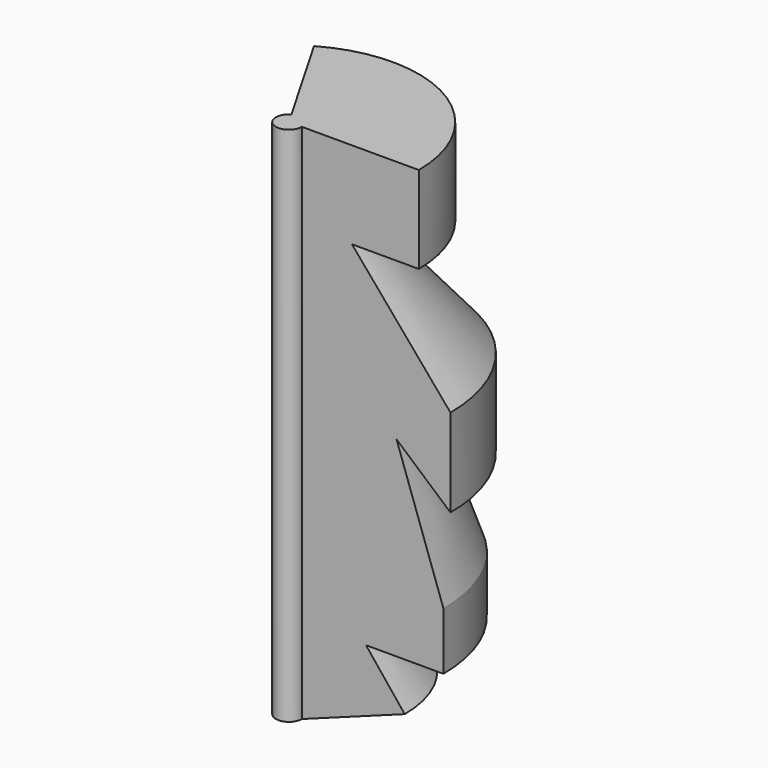
from build123d import *

# Parameters (mm, degrees)
F0_R     = 6.35
F1_DEPTH = 254
F3_ANGLE = -120


with BuildPart() as f1:
    # F0 (on Top) → F1 (new body)
    with BuildSketch(Plane.XY):
        Circle(F0_R)
    extrude(amount=F1_DEPTH)

    # F2 (on Front) → F3 (revolve)
    with BuildSketch(Plane.XZ):
        Polygon((63.292921, 254), (6.35, 254), (6.35, 0), (56.434337, 18.382614), (37.573218, 41.816123), (75.295448, 41.816123), (75.295448, 69.822021), (52.433491, 134.978592), (78.724734, 112.116635), (78.724734, 154.982805), (30.714633, 211.566135), (63.292921, 211.566135), align=None)
    revolve(axis=Axis((0, 0, 121.26141), (0, 0, -1)), revolution_arc=F3_ANGLE)


solid = f1.part
